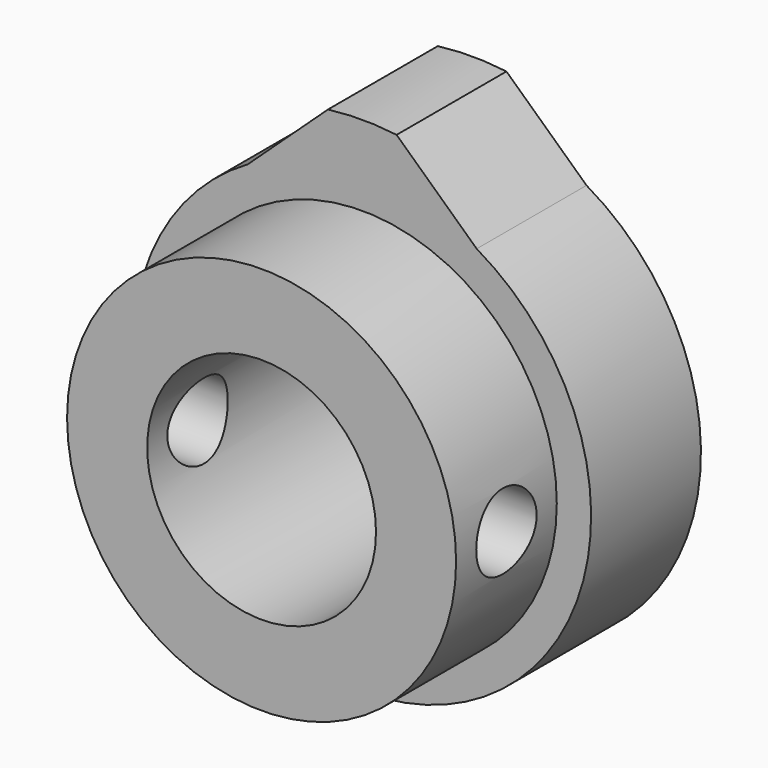
from build123d import *

# Parameters (mm, degrees)
F0_R     = 8.5
F0_R_2   = 5
F1_DEPTH = 6
F2_DEPTH = 11.5
F4_D     = 3.3
F4_DEPTH = 10.001
F5_D     = 3.3


with BuildPart() as f1:
    # F0 (on Front) → F1 (new body)
    with BuildSketch(Plane.XZ):
        with BuildLine():
            Line((-1.5, 11.9058808998), (-5, 8.6602540378))
            ThreePointArc((-5, 8.6602540378), (0, -10), (5, 8.6602540378))
            Line((5, 8.6602540378), (1.5, 11.9058808998))
            ThreePointArc((1.5, 11.9058808998), (0, 12), (-1.5, 11.9058808998))
        make_face()
        Circle(F0_R, mode=Mode.SUBTRACT)
        Circle(F0_R)
        Circle(F0_R_2, mode=Mode.SUBTRACT)
    extrude(amount=F1_DEPTH)

    # F0 (on Front) → F2 (join)
    with BuildSketch(Plane.XZ):
        Circle(F0_R)
        Circle(F0_R_2, mode=Mode.SUBTRACT)
    extrude(amount=F2_DEPTH)

    # F4 (through all, one way)
    with BuildSketch(Plane.YZ):
        with Locations((-8.75, 0)):
            Circle(F4_D / 2)
    extrude(amount=-F4_DEPTH, mode=Mode.SUBTRACT)

    # F5 (through all)
    with Locations(Plane(origin=(0, 0, 0), x_dir=(0, 1, 0), z_dir=(-1, 0, 0))):
        with Locations((-8.75, 0)):
            Hole(F5_D / 2)


solid = f1.part
